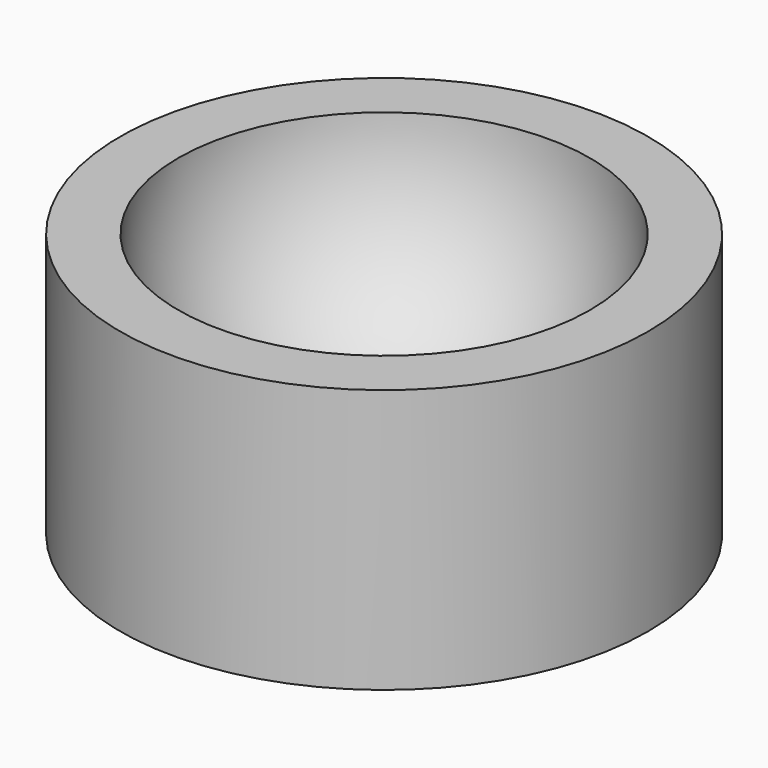
from build123d import *

# Parameters (mm, degrees)
F0_R     = 5
F1_DEPTH = 5


with BuildPart() as f1:
    # F0 (on Top) → F1 (new body)
    with BuildSketch(Plane.XY):
        Circle(F0_R)
    extrude(amount=-F1_DEPTH)

    # F2 (on face) → F3 (revolve, cut)
    with BuildSketch(Plane.XY):
        with BuildLine():
            Line((-3.9, 0), (3.9, 0))
            ThreePointArc((3.9, 0), (0, 3.9), (-3.9, 0))
        make_face()
    revolve(axis=Axis((0, 0, 0), (1, 0, 0)), mode=Mode.SUBTRACT)


solid = f1.part
